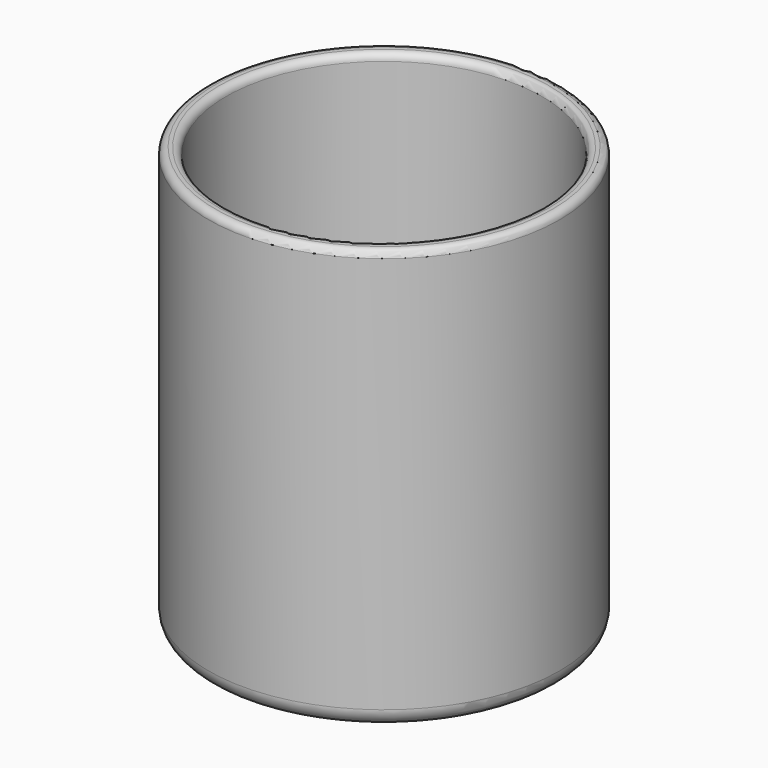
from build123d import *

# Parameters (mm, degrees)
F0_R     = 50
F1_DEPTH = 120
F2_T     = -5
F3_R     = 5
F4_R     = 2


with BuildPart() as f1:
    # F0 (on Top) → F1 (new body)
    with BuildSketch(Plane.XY):
        Circle(F0_R)
    extrude(amount=F1_DEPTH)

    # F2
    f2_openings = [f1.faces().sort_by_distance(p)[0] for p in [
        (0, 0, 120),
    ]]
    offset(amount=F2_T, openings=f2_openings)

    # F3
    f3_edges = [f1.edges().sort_by_distance(p)[0] for p in [
        (-45, 0, 5),
        (-50, 0, 0),
    ]]
    fillet(f3_edges, radius=F3_R)

    # F4
    f4_edges = [f1.edges().sort_by_distance(p)[0] for p in [
        (-45, 0, 120),
        (-50, 0, 120),
    ]]
    fillet(f4_edges, radius=F4_R)


solid = f1.part
